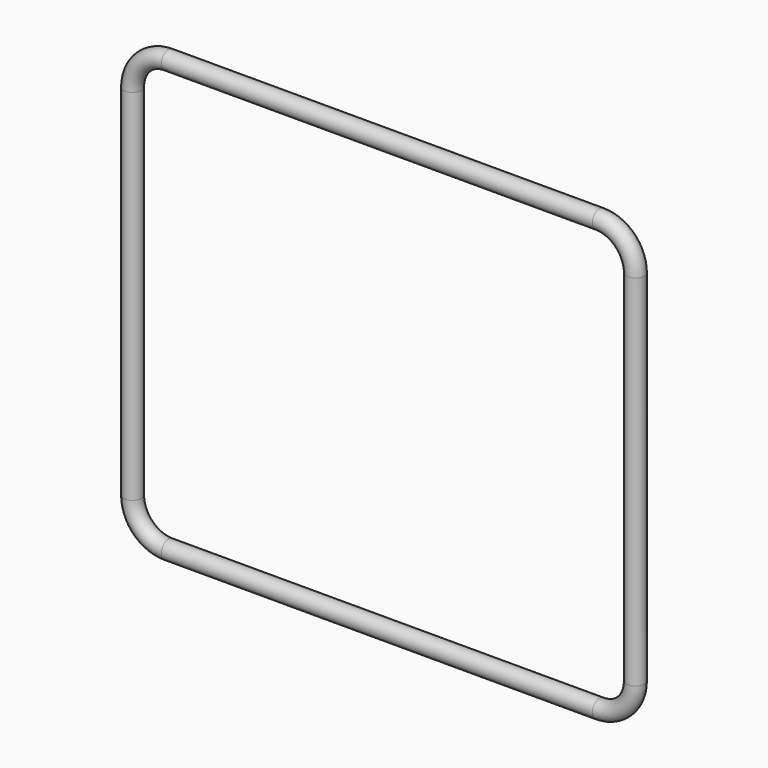
from build123d import *

# Parameters (mm, degrees)
F1_R = 1.5875


with BuildPart() as f2:
    # F2: sweep along a path in F0
    with BuildLine(Plane.XZ) as f2_path:
        Line((0, 38.1), (-38.1, 38.1))
        ThreePointArc((-38.1, 38.1), (-42.590128, 36.240128), (-44.45, 31.75))
        Line((-44.45, 31.75), (-44.45, -31.75))
        ThreePointArc((-44.45, -31.75), (-42.590128, -36.240128), (-38.1, -38.1))
        Line((-38.1, -38.1), (38.1, -38.1))
        ThreePointArc((38.1, -38.1), (42.590128, -36.240128), (44.45, -31.75))
        Line((44.45, -31.75), (44.45, 31.75))
        ThreePointArc((44.45, 31.75), (42.590128, 36.240128), (38.1, 38.1))
        Line((38.1, 38.1), (0, 38.1))
    # F1 (on Right) → F2 (sweep)
    with BuildSketch(Plane.YZ):
        with Locations((0, 38.1)):
            Circle(F1_R)
    sweep(path=f2_path.line)


solid = f2.part
